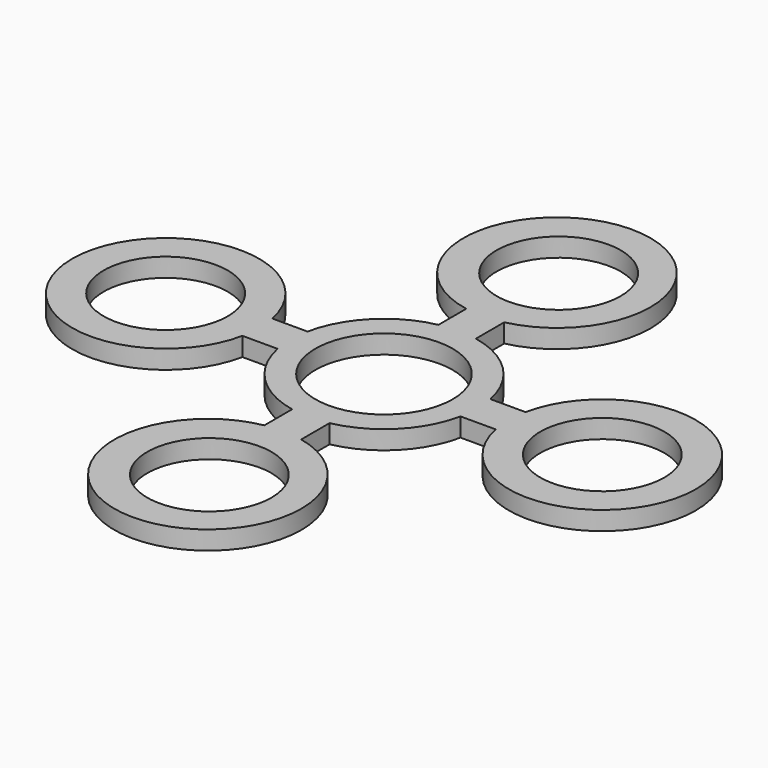
from build123d import *

# Parameters (mm, degrees)
F0_R     = 9.95
F0_R_2   = 11
F1_DEPTH = 3


with BuildPart() as f1:
    # F0 (on Top) → F1 (new body)
    with BuildSketch(Plane.XY):
        with BuildLine():
            ThreePointArc((-3, -20.234534), (-0.51911, -49.97929), (3, -20.339432))
            Line((3, -20.339432), (3, -14.661455))
            ThreePointArc((3, -14.661455), (10.582019, -10.582019), (14.661455, -3))
            Line((14.661455, -3), (20.302832, -3))
            ThreePointArc((20.302832, -3), (50, -0.002273), (20.303291, 3))
            Line((20.303291, 3), (14.661455, 3))
            ThreePointArc((14.661455, 3), (10.582019, 10.582019), (3, 14.661455))
            Line((3, 14.661455), (3, 20.339432))
            ThreePointArc((3, 20.339432), (-0.51911, 49.97929), (-3, 20.234534))
            Line((-3, 20.234534), (-3, 14.661455))
            ThreePointArc((-3, 14.661455), (-10.582019, 10.582019), (-14.661455, 3))
            Line((-14.661455, 3), (-20.303291, 3))
            ThreePointArc((-20.303291, 3), (-50, -0.002273), (-20.302832, -3))
            Line((-20.302832, -3), (-14.661455, -3))
            ThreePointArc((-14.661455, -3), (-10.582019, -10.582019), (-3, -14.661455))
            Line((-3, -14.661455), (-3, -20.234534))
        make_face()
        with Locations((-35, -0.001125)):
            Circle(F0_R, mode=Mode.SUBTRACT)
        with Locations((0, -35)):
            Circle(F0_R, mode=Mode.SUBTRACT)
        with Locations((35, -0.001125)):
            Circle(F0_R, mode=Mode.SUBTRACT)
        Circle(F0_R_2, mode=Mode.SUBTRACT)
        with Locations((0, 35)):
            Circle(F0_R, mode=Mode.SUBTRACT)
    extrude(amount=F1_DEPTH)


solid = f1.part
